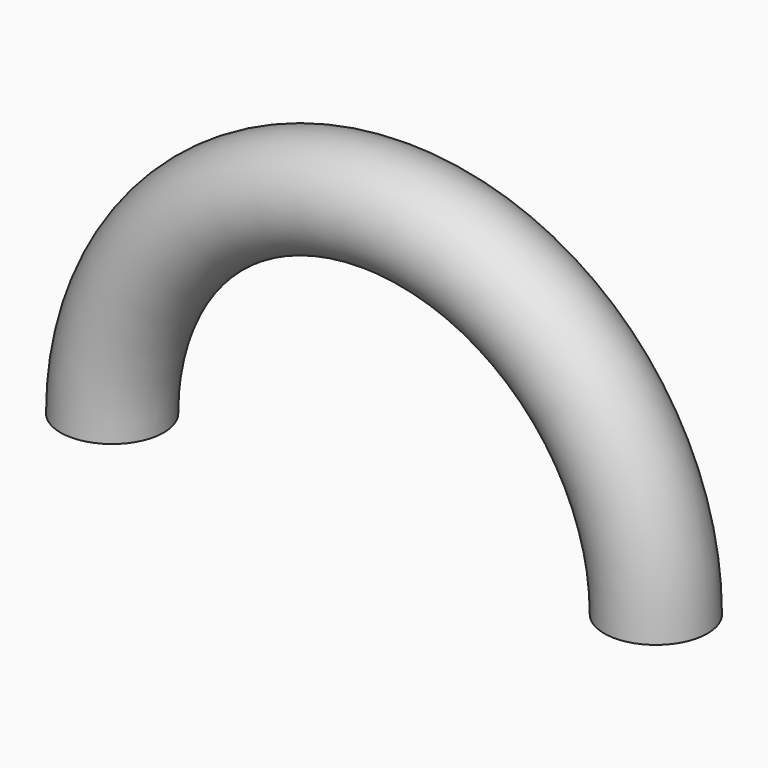
from build123d import *

# Parameters (mm, degrees)
TORUS_R     = 1.9
TORUS_ANGLE = 180


with BuildPart() as part:
    # Torus → Torus (revolve)
    with BuildSketch(Plane(origin=(0, 0, 0), x_dir=(1, 0, 0), z_dir=(0, 0, -1))):
        with Locations((10, 0)):
            Circle(TORUS_R)
    revolve(axis=Axis((0, 0, 0), (0, -1, 0)), revolution_arc=TORUS_ANGLE)


solid = part.part
